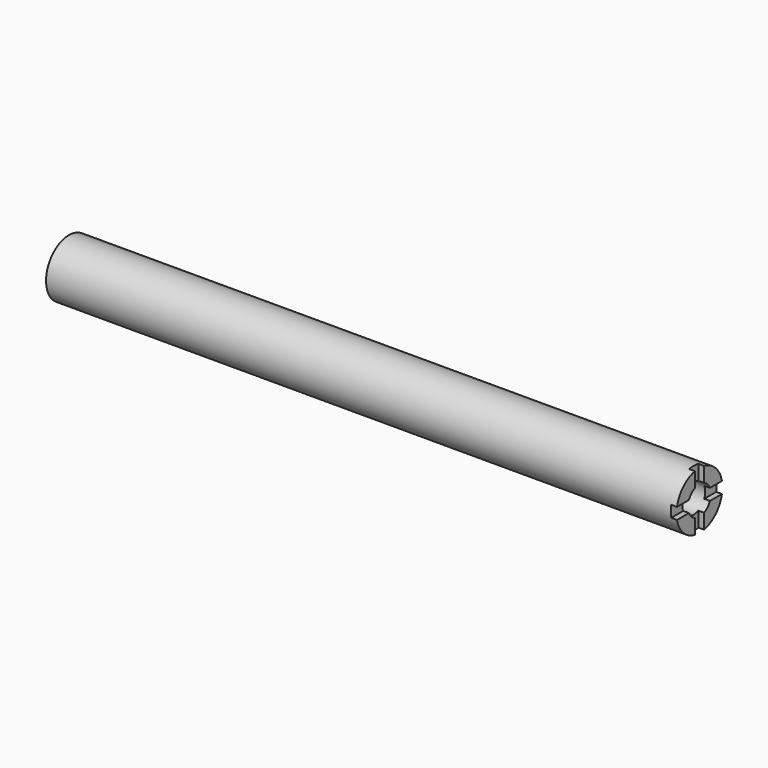
from build123d import *

# Parameters (mm, degrees)
F0_R     = 12.7
F1_DEPTH = 279.4
F2_R     = 6.35
F3_DEPTH = 25.4
F5_DEPTH = 2.54


with BuildPart() as f1:
    # F0 (on Right) → F1 (new body)
    with BuildSketch(Plane.YZ):
        Circle(F0_R)
    extrude(amount=F1_DEPTH)

    # F2 (on face) → F3 (cut)
    with BuildSketch(Plane.YZ.offset(279.4)):
        Circle(F2_R)
    extrude(amount=-F3_DEPTH, mode=Mode.SUBTRACT)

    # F4 (on face) → F5 (cut)
    with BuildSketch(Plane.YZ.offset(279.4)):
        Polygon((-13.526564, -2.54), (-12.443408, -2.54), (-5.819871, -2.54), (-5.819871, 2.54), (-12.443408, 2.54), (-13.526564, 2.54), align=None)
        Polygon((-2.54, 13.376813), (-2.54, 12.443408), (-2.54, 5.819871), (2.54, 5.819871), (2.54, 12.443408), (2.54, 13.376813), align=None)
        Polygon((12.443408, 2.54), (5.819871, 2.54), (5.819871, -2.54), (12.443408, -2.54), (13.546099, -2.54), (13.546099, 2.54), align=None)
        Polygon((2.54, -12.443408), (2.54, -5.819871), (-2.54, -5.819871), (-2.54, -12.443408), (-2.54, -13.695851), (2.54, -13.695851), align=None)
    extrude(amount=-F5_DEPTH, mode=Mode.SUBTRACT)


solid = f1.part
